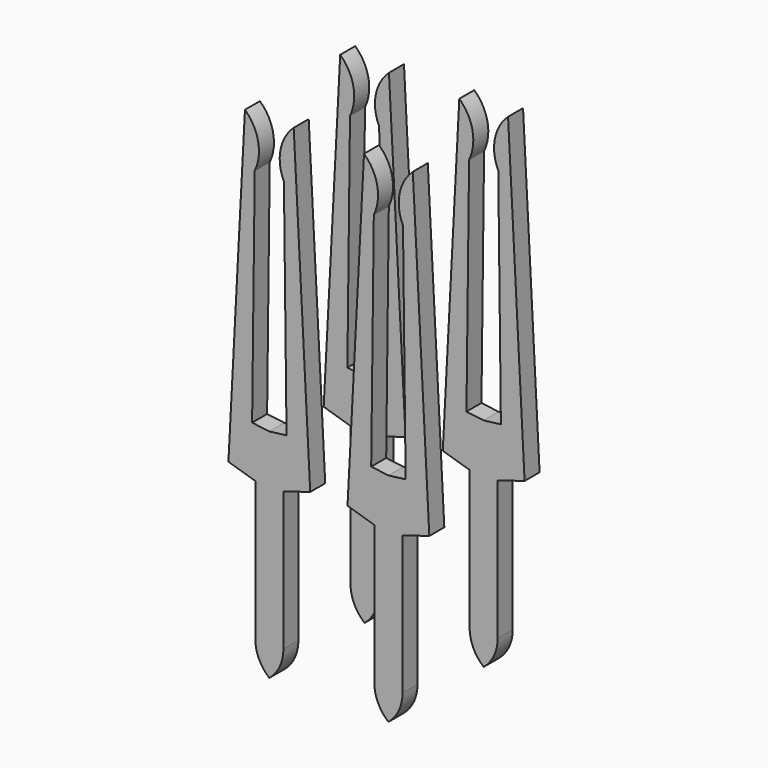
from build123d import *

# Parameters (mm, degrees)
EXTRUDE004_DEPTH                     = 0.4
EXTRUDE004_ONTO_SKETCH004_ROLL_ANGLE = 90
ARRAY007_X_COUNT                     = 2
ARRAY007_X_PITCH                     = 2.54
ARRAY007_Y_COUNT                     = 2
ARRAY007_Y_PITCH                     = 2.54


with BuildPart() as obj1:
    # Sketch004 as drawn → Extrude004 (new)
    with BuildSketch(Plane.XY):
        with BuildLine():
            Line((-0.52, 7.5), (-0.87243, 0.77523))
            Line((-0.87243, 0.77523), (-0.3, 0.601222))
            Line((-0.3, 0.601222), (-0.3, -2.364495))
            ThreePointArc((-0.3, -2.364495), (-0.221231, -2.715873), (0, -3))
            Line((0, -3), (0, 1.62804))
            Line((0, 1.62804), (-0.367163, 1.674743))
            Line((-0.367163, 1.674743), (-0.311338, 6.421084))
            ThreePointArc((-0.311338, 6.421084), (-0.237846, 6.994933), (-0.52, 7.5))
        make_face()
    extrude(amount=-EXTRUDE004_DEPTH)


with BuildPart() as obj1_1:
    # Extrude004 onto Sketch004 roll: moved
    add(obj1.part.rotate(Axis((0, 0, 0), (1, 0, 0)), EXTRUDE004_ONTO_SKETCH004_ROLL_ANGLE))


with BuildPart() as obj1_2:
    # Extrude004 onto Sketch004 placement: moved
    add(obj1_1.part.moved(Location((0, -0.2, 0))))


with BuildPart() as pins003:
    # Part__Mirroring: instance of obj1
    add(obj1_2.part.mirror(Plane(origin=(0, 0, 0), x_dir=(0, -1, 0), z_dir=(1, 0, 0))))

    # Fusion001: union obj1
    add(obj1_2.part)

    # Array007 X: pins003 ×2


with BuildPart() as pins003_1:
    add(pins003.part)
    with Locations(*[(i * ARRAY007_X_PITCH, 0, 0) for i in range(1, ARRAY007_X_COUNT)]):
        add(pins003.part)

    # Array007 Y: pins003 ×2


with BuildPart() as pins003_2:
    add(pins003_1.part)
    with Locations(*[(0, i * ARRAY007_Y_PITCH, 0) for i in range(1, ARRAY007_Y_COUNT)]):
        add(pins003_1.part)


with BuildPart() as pins003_3:
    # Array007 placement: moved
    add(pins003_2.part.moved(Location((0, -1.27, 0))))


solid = pins003_3.part
